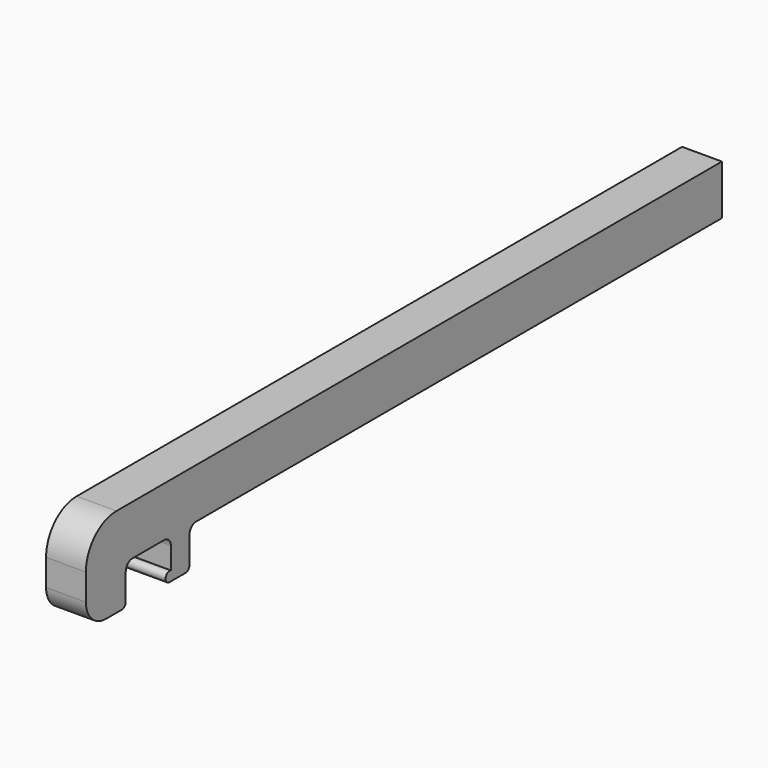
from build123d import *

# Parameters (mm, degrees)
F0_W     = 2
F0_H     = 2
F1_DEPTH = 1.5
F2_R     = 0.5
F5_DEPTH = 3
F6_W     = 70.54612
F6_H     = 32.912751
F7_DEPTH = 3.001


with BuildPart() as f1:
    # F0 (on Right) → F1 (new body, symmetric)
    with BuildSketch(Plane.YZ):
        with BuildLine():
            Line((-50, 0), (0, 0))
            Line((0, 0), (0, 4))
            Line((0, 4), (-57, 4))
            ThreePointArc((-57, 4), (-59.12132, 3.12132), (-60, 1))
            Line((-60, 1), (-60, 0))
            Line((-60, 0), (-56, 0))
            Line((-56, 0), (-52, 0))
            Line((-52, 0), (-50, 0))
        make_face()
        with Locations((-51, -1)):
            Rectangle(F0_W, F0_H)
        with BuildLine():
            Line((-50, -2.5), (-50, -2))
            Line((-50, -2), (-52, -2))
            Line((-52, -2), (-52, -3))
            Line((-52, -3), (-50.5, -3))
            ThreePointArc((-50.5, -3), (-50.146447, -2.853553), (-50, -2.5))
        make_face()
        with BuildLine():
            Line((-56, -2.5), (-56, 0))
            Line((-56, 0), (-60, 0))
            Line((-60, 0), (-60, -1))
            ThreePointArc((-60, -1), (-59.414214, -2.414214), (-58, -3))
            Line((-58, -3), (-56.5, -3))
            ThreePointArc((-56.5, -3), (-56.146447, -2.853553), (-56, -2.5))
        make_face()
        with BuildLine():
            Line((-52, -3), (-52, -2))
            ThreePointArc((-52, -2), (-52.5, -2.5), (-52, -3))
        make_face()
    extrude(amount=F1_DEPTH, both=True)

    # F2
    f2_edges = [f1.edges().sort_by_distance(p)[0] for p in [
        (0, -56, 0),
        (0, -52, 0),
        (0, -50, 0),
    ]]
    fillet(f2_edges, radius=F2_R)

    # F3: F1 across face


with BuildPart() as f1_1:
    add(f1.part)
    add(f1.part.mirror(Plane(origin=(0, 0, 2), x_dir=(-1, 0, 0), z_dir=(0, 1, 0))))

    # F4 (on face) → F5 (cut, through all)
    with BuildSketch(Plane.YZ.offset(1.5)):
        with BuildLine():
            Line((57, 4), (-57, 4))
            ThreePointArc((-57, 4), (-59.12132, 3.12132), (-60, 1))
            Line((-60, 1), (-60, -1))
            ThreePointArc((-60, -1), (-59.414214, -2.414214), (-58, -3))
            Line((-58, -3), (-56.5, -3))
            ThreePointArc((-56.5, -3), (-56.146447, -2.853553), (-56, -2.5))
            Line((-56, -2.5), (-56, -0.5))
            ThreePointArc((-56, -0.5), (-55.853553, -0.146447), (-55.5, 0))
            Line((-55.5, 0), (-52.5, 0))
            ThreePointArc((-52.5, 0), (-52.146447, -0.146447), (-52, -0.5))
            Line((-52, -0.5), (-52, -2))
            ThreePointArc((-52, -2), (-52.5, -2.5), (-52, -3))
            Line((-52, -3), (-50.5, -3))
            ThreePointArc((-50.5, -3), (-50.146447, -2.853553), (-50, -2.5))
            Line((-50, -2.5), (-50, -0.5))
            ThreePointArc((-50, -0.5), (-49.853553, -0.146447), (-49.5, 0))
            Line((-49.5, 0), (49.5, 0))
            Line((49.5, 0), (49.5, 0.125))
            Line((49.5, 0.125), (-49.5, 0.125))
            ThreePointArc((-49.5, 0.125), (-49.941942, -0.058058), (-50.125, -0.5))
            Line((-50.125, -0.5), (-50.125, -2.5))
            ThreePointArc((-50.125, -2.5), (-50.234835, -2.765165), (-50.5, -2.875))
            Line((-50.5, -2.875), (-52, -2.875))
            ThreePointArc((-52, -2.875), (-52.369599, -2.436587), (-51.875, -2.146447))
            Line((-51.875, -2.146447), (-51.875, -0.5))
            ThreePointArc((-51.875, -0.5), (-52.058058, -0.058058), (-52.5, 0.125))
            Line((-52.5, 0.125), (-55.5, 0.125))
            ThreePointArc((-55.5, 0.125), (-55.941942, -0.058058), (-56.125, -0.5))
            Line((-56.125, -0.5), (-56.125, -2.5))
            ThreePointArc((-56.125, -2.5), (-56.234835, -2.765165), (-56.5, -2.875))
            Line((-56.5, -2.875), (-58, -2.875))
            ThreePointArc((-58, -2.875), (-59.325825, -2.325825), (-59.875, -1))
            Line((-59.875, -1), (-59.875, 1))
            ThreePointArc((-59.875, 1), (-59.032932, 3.032932), (-57, 3.875))
            Line((-57, 3.875), (57, 3.875))
            Line((57, 3.875), (57, 4))
        make_face()
    extrude(amount=-F5_DEPTH, mode=Mode.SUBTRACT)

    # F6 (on face) → F7 (cut, through all)
    with BuildSketch(Plane.YZ.offset(1.5)):
        with Locations((35.27306, -3.023576)):
            Rectangle(F6_W, F6_H)
    extrude(amount=-F7_DEPTH, mode=Mode.SUBTRACT)


solid = f1_1.part
